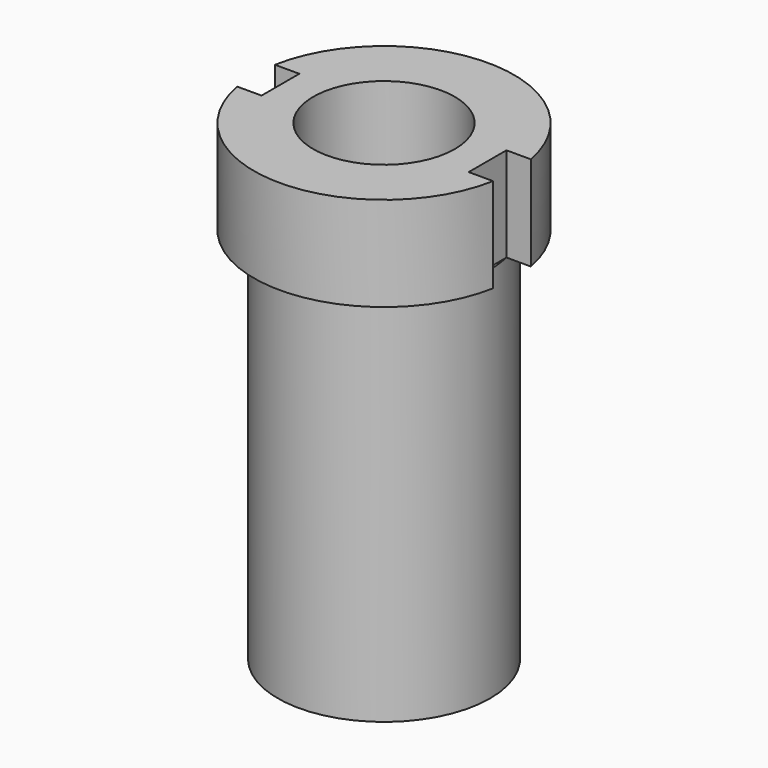
from build123d import *

# Parameters (mm, degrees)
F0_R     = 7
F1_DEPTH = 25.4
F2_R     = 3.81
F3_DEPTH = 21.59
F4_R     = 7
F4_R_2   = 5.715
F5_DEPTH = 20.32
F6_W     = 2.794
F6_H     = 2.54
F7_DEPTH = 25.4
F8_R     = 0.9525
F9_DEPTH = 5.08


with BuildPart() as f1:
    # F0 (on Top) → F1 (new body)
    with BuildSketch(Plane.XY):
        Circle(F0_R)
    extrude(amount=F1_DEPTH)

    # F2 (on face) → F3 (cut)
    with BuildSketch(Plane.XY.offset(25.4)):
        Circle(F2_R)
    extrude(amount=-F3_DEPTH, mode=Mode.SUBTRACT)

    # F4 (on face) → F5 (cut)
    with BuildSketch(Plane(origin=(0, 0, 0), x_dir=(1, 0, 0), z_dir=(0, 0, -1))):
        Circle(F4_R)
        Circle(F4_R_2, mode=Mode.SUBTRACT)
    extrude(amount=-F5_DEPTH, mode=Mode.SUBTRACT)

    # F6 (on face) → F7 (cut)
    with BuildSketch(Plane(origin=(0, 0, 20.32), x_dir=(1, 0, 0), z_dir=(0, 0, -1))):
        with Locations((6.969102, 0)):
            Rectangle(F6_W, F6_H)
        with Locations((-6.969102, 0)):
            Rectangle(F6_W, F6_H)
    extrude(amount=-F7_DEPTH, mode=Mode.SUBTRACT)

    # F8 (on face) → F9 (join)
    with BuildSketch(Plane.XY.offset(3.81)):
        Circle(F8_R)
    extrude(amount=F9_DEPTH)


solid = f1.part
